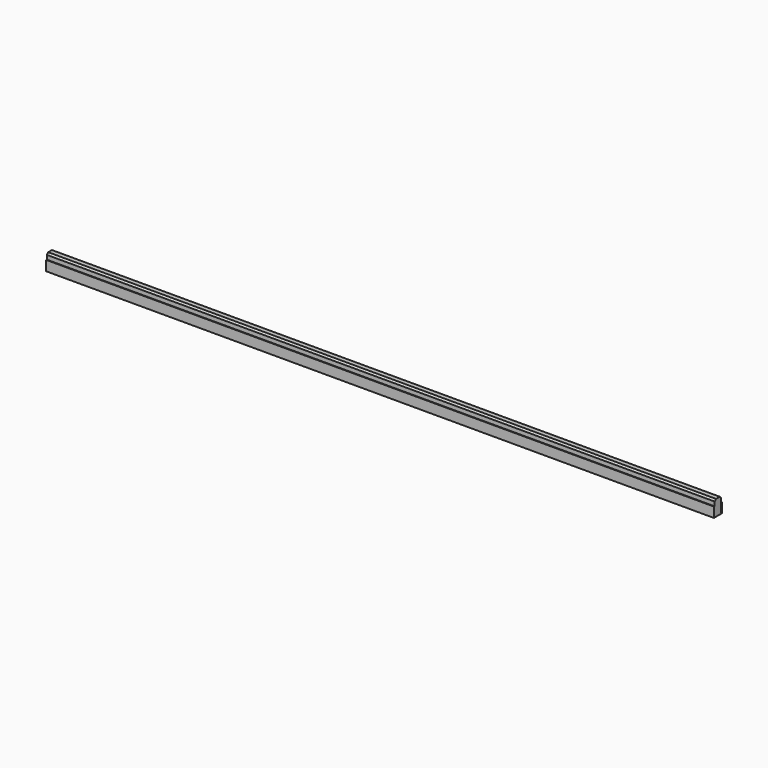
from build123d import *

# Parameters (mm, degrees)
F0_W     = 24
F0_H     = 45
F1_DEPTH = 1000
F2_DEPTH = 1000
F3_SIZE  = 5


with BuildPart() as f1:
    # F0 (on Right) → F1 (new body, symmetric)
    with BuildSketch(Plane.YZ):
        with Locations((-4.996106, 30.366278)):
            Rectangle(F0_W, F0_H)
    extrude(amount=F1_DEPTH, both=True)

    # F3
    f3_edges = [f1.edges().sort_by_distance(p)[0] for p in [
        (0, -16.996106, 52.866278),
        (0, 7.003894, 52.866278),
    ]]
    chamfer(f3_edges, length=F3_SIZE)


with BuildPart() as f2:
    # F0 (on Right) → F2 (new body, symmetric)
    with BuildSketch(Plane.YZ):
        Polygon((-19.996106, 35.866278), (-19.996106, 5.866278), (10.003894, 5.866278), (10.003894, 35.866278), (8.003894, 35.866278), (8.003894, 7.866278), (7.003894, 7.866278), (-16.996106, 7.866278), (-17.996106, 7.866278), (-17.996106, 35.866278), align=None)
    extrude(amount=F2_DEPTH, both=True)


solid = Compound([f1.part, f2.part])
